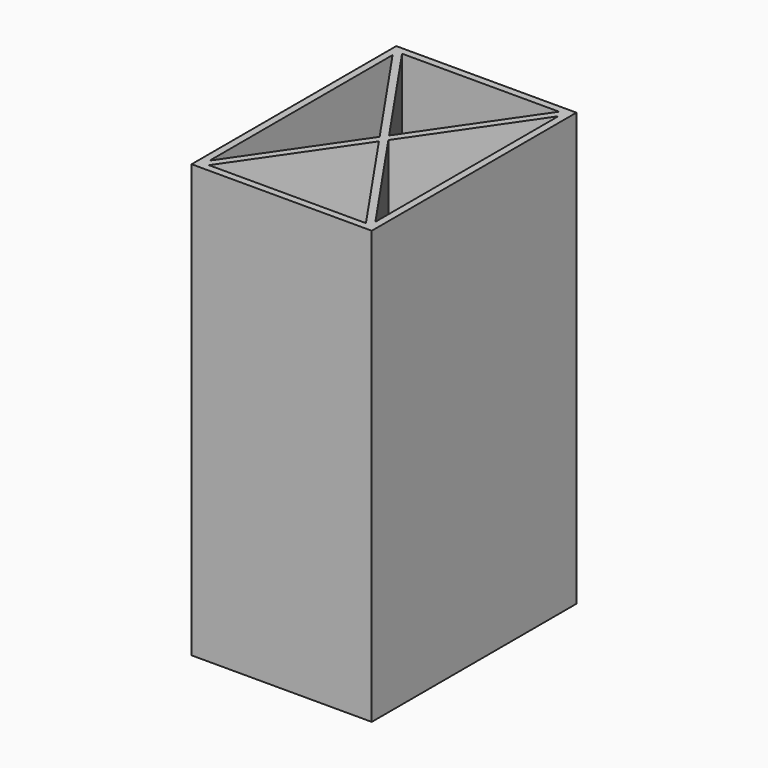
from build123d import *

# Parameters (mm, degrees)
F0_W     = 50
F0_H     = 71
F1_DEPTH = 120


with BuildPart() as f1:
    # F0 (on Top) → F1 (new body)
    with BuildSketch(Plane.XY):
        with Locations((25, 35.5)):
            Rectangle(F0_W, F0_H)
        Polygon((46.786998, 2), (3.213002, 2), (25, 33.733236), align=None, mode=Mode.SUBTRACT)
        Polygon((48, 67.233236), (48, 3.766764), (26.213002, 35.5), align=None, mode=Mode.SUBTRACT)
        Polygon((23.786998, 35.5), (2, 3.766764), (2, 67.233236), align=None, mode=Mode.SUBTRACT)
        Polygon((25, 37.266764), (3.213002, 69), (46.786998, 69), align=None, mode=Mode.SUBTRACT)
    extrude(amount=F1_DEPTH)


solid = f1.part
